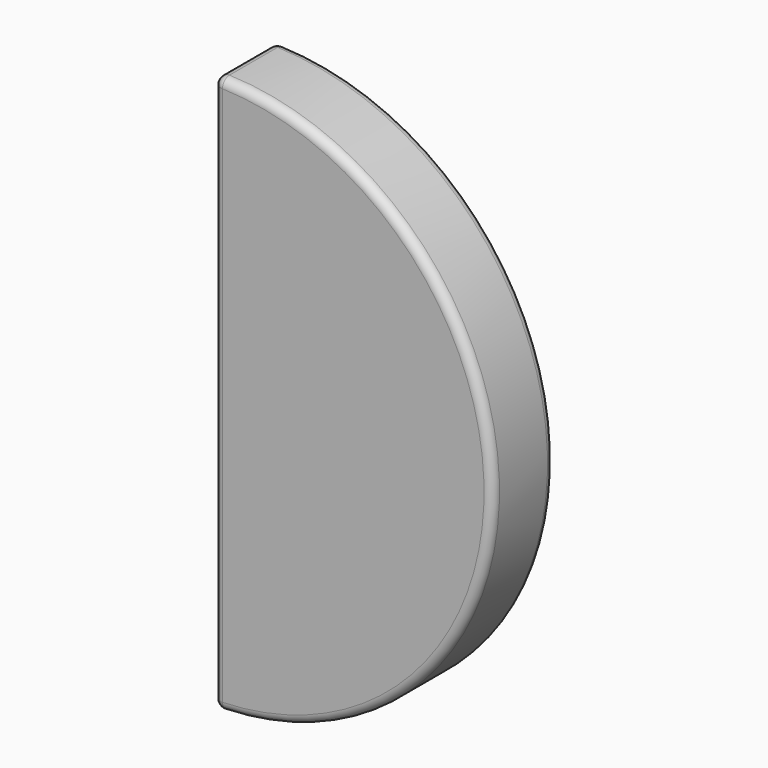
from build123d import *

# Parameters (mm, degrees)
F1_DEPTH = 457.2
F2_R     = 50.8


with BuildPart() as f1:
    # F0 (on Front) → F1 (new body)
    with BuildSketch(Plane.XZ):
        with BuildLine():
            Line((0, 1651), (0, 0))
            Line((0, 0), (0, -1651))
            ThreePointArc((0, -1651), (1167.433295739, -1167.433295739), (1651, 0))
            ThreePointArc((1651, 0), (1167.433295739, 1167.433295739), (0, 1651))
        make_face()
    extrude(amount=-F1_DEPTH)

    # F2
    f2_edges = [f1.edges().sort_by_distance(p)[0] for p in [
        (0, 228.6, 1651),
        (1651, 457.2, 0),
        (1651, 0, 0),
        (0, 228.6, -1651),
        (0, 0, 0),
        (0, 457.2, 0),
    ]]
    fillet(f2_edges, radius=F2_R)


solid = f1.part
